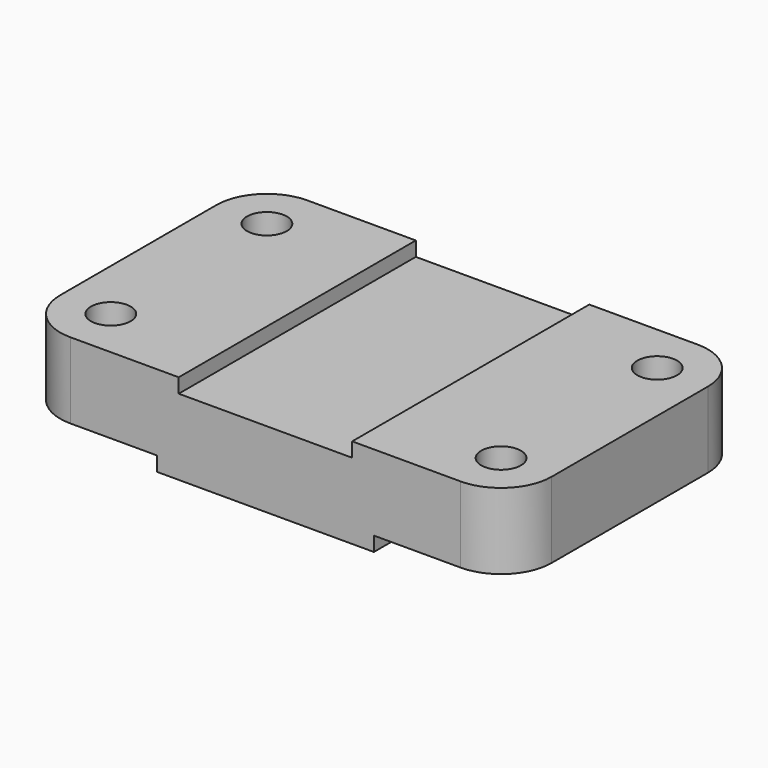
from build123d import *

# Parameters (mm, degrees)
F0_R     = 5.5
F0_W     = 45.4
F0_H     = 82
F1_DEPTH = 25
F2_W     = 48
F2_H     = 4
F2_W_2   = 38
F3_DEPTH = 82.001


with BuildPart() as f1:
    # F0 (on Top) → F1 (new body)
    with BuildSketch(Plane.XY):
        with BuildLine():
            ThreePointArc((0, 14), (4.100505, 4.100505), (14, 0))
            Line((14, 0), (45.3, 0))
            Line((45.3, 0), (45.3, 82))
            Line((45.3, 82), (14, 82))
            ThreePointArc((14, 82), (4.100505, 77.899495), (0, 68))
            Line((0, 68), (0, 14))
        make_face()
        with Locations((14, 14)):
            Circle(F0_R, mode=Mode.SUBTRACT)
        with Locations((14, 68)):
            Circle(F0_R, mode=Mode.SUBTRACT)
        with Locations((68, 41)):
            Rectangle(F0_W, F0_H)
        with BuildLine():
            Line((90.7, 82), (90.7, 0))
            Line((90.7, 0), (122, 0))
            ThreePointArc((122, 0), (131.899495, 4.100505), (136, 14))
            Line((136, 14), (136, 68))
            ThreePointArc((136, 68), (131.899495, 77.899495), (122, 82))
            Line((122, 82), (90.7, 82))
        make_face()
        with Locations((122, 14)):
            Circle(F0_R, mode=Mode.SUBTRACT)
        with Locations((122, 68)):
            Circle(F0_R, mode=Mode.SUBTRACT)
    extrude(amount=F1_DEPTH)

    # F2 (on face) → F3 (cut, through all)
    with BuildSketch(Plane.XZ):
        with Locations((68, 23)):
            Rectangle(F2_W, F2_H)
        with Locations((19, 2)):
            Rectangle(F2_W_2, F2_H)
        with Locations((117, 2)):
            Rectangle(F2_W_2, F2_H)
    extrude(amount=-F3_DEPTH, mode=Mode.SUBTRACT)


solid = f1.part
